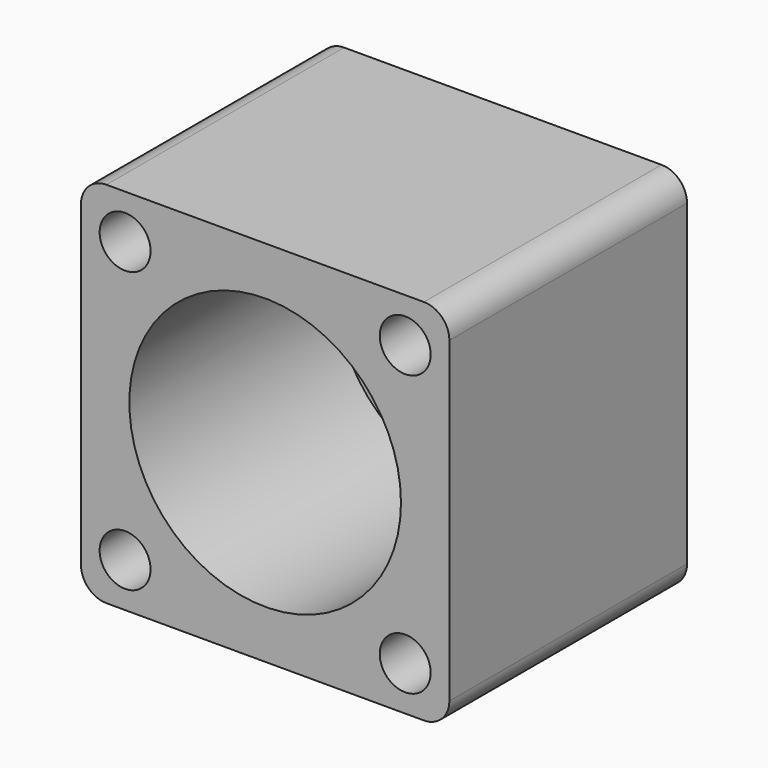
from build123d import *

# Parameters (mm, degrees)
F0_W     = 43.4
F0_H     = 43.4
F0_R     = 3
F0_R_2   = 16
F1_DEPTH = 17.5
F3_R     = 16
F3_R_2   = 14
F4_DEPTH = 2
F5_R     = 3


with BuildPart() as f1:
    # F0 (on Front) → F1 (new body, symmetric)
    with BuildSketch(Plane.XZ):
        Rectangle(F0_W, F0_H)
        with Locations((-16.5, -16.5)):
            Circle(F0_R, mode=Mode.SUBTRACT)
        with Locations((16.5, -16.5)):
            Circle(F0_R, mode=Mode.SUBTRACT)
        with Locations((-16.5, 16.5)):
            Circle(F0_R, mode=Mode.SUBTRACT)
        Circle(F0_R_2, mode=Mode.SUBTRACT)
        with Locations((16.5, 16.5)):
            Circle(F0_R, mode=Mode.SUBTRACT)
    extrude(amount=F1_DEPTH, both=True)

    # F3 (on offset) → F4 (join)
    with BuildSketch(Plane(origin=(0, 14.75, 0), x_dir=(-1, 0, 0), z_dir=(0, 1, 0))):
        Circle(F3_R)
        Circle(F3_R_2, mode=Mode.SUBTRACT)
    extrude(amount=-F4_DEPTH)

    # F5
    f5_edges = [f1.edges().sort_by_distance(p)[0] for p in [
        (-21.7, 0, 21.7),
        (21.7, 0, 21.7),
        (21.7, 0, -21.7),
        (-21.7, 0, -21.7),
    ]]
    fillet(f5_edges, radius=F5_R)


solid = f1.part
